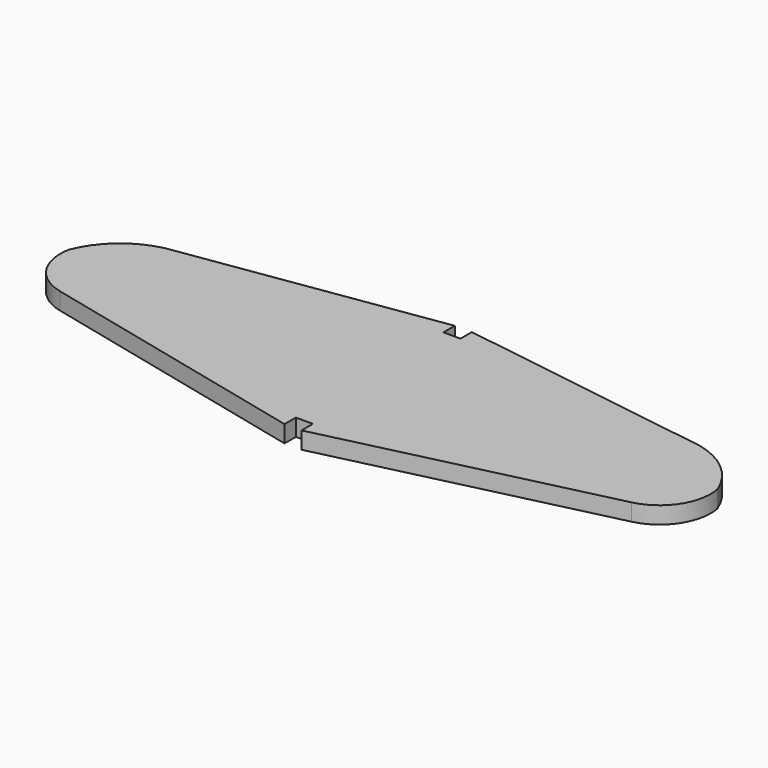
from build123d import *

# Parameters (mm, degrees)
F0_W     = 3
F0_H     = 65
F1_DEPTH = 6
F3_COUNT = 2
F3_ANGLE = 180


with BuildPart() as f1:
    # F0 (on Top) → F1 (new body)
    with BuildSketch(Plane.XY):
        with BuildLine():
            Line((-27.724255, -31.782916), (69.996519, -8.541981))
            ThreePointArc((69.996519, -8.541981), (80.927579, -0.835803), (83.526947, 12.283517))
            ThreePointArc((83.526947, 12.283517), (75.611861, 23.435124), (63.374858, 29.53944))
            Line((63.374858, 29.53944), (-27.724255, 43.217084))
            Line((-27.724255, 43.217084), (-27.724255, 38.217084))
            Line((-27.724255, 38.217084), (-27.724255, -26.782916))
            Line((-27.724255, -26.782916), (-27.724255, -31.782916))
        make_face()
        with BuildLine():
            Line((-27.724255, -31.782916), (69.996519, -8.541981))
            ThreePointArc((69.996519, -8.541981), (80.927579, -0.835803), (83.526947, 12.283517))
            ThreePointArc((83.526947, 12.283517), (75.611861, 23.435124), (63.374858, 29.53944))
            Line((63.374858, 29.53944), (-27.724255, 43.217084))
            Line((-27.724255, 43.217084), (-27.724255, 38.217084))
            Line((-27.724255, 38.217084), (-27.724255, -26.782916))
            Line((-27.724255, -26.782916), (-27.724255, -31.782916))
        make_face()
        with Locations((-29.224255, 5.717084)):
            Rectangle(F0_W, F0_H)
    extrude(amount=F1_DEPTH)

    # F3: F1 ×2 about axis
    f3_axis = Axis((-30.724255, 5.717084, 3), (0, -1, 0))


with BuildPart() as f1_1:
    add(f1.part)
    for i in range(1, F3_COUNT):
        add(f1.part.rotate(f3_axis, i * F3_ANGLE / (F3_COUNT - 1)))


solid = f1_1.part
